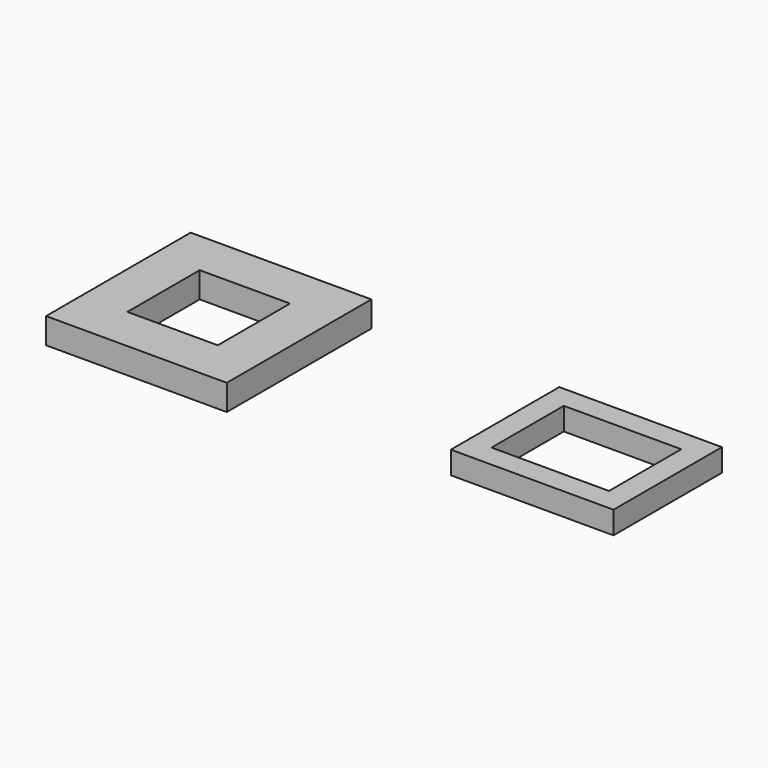
from build123d import *

# Parameters (mm, degrees)
F0_W     = 200
F0_H     = 100
F1_DEPTH = 57
F2_W     = 50
F2_H     = 50
F2_W_2   = 260
F2_H_2   = 200
F3_DEPTH = 50


with BuildPart() as f1:
    # F0 (on Top) → F1 (new body)
    with BuildSketch(Plane.XY):
        Polygon((100, 91.085348), (100, 191.085348), (0, 191.085348), (0, -208.914652), (100, -208.914652), (100, -108.914652), align=None)
        Polygon((400, -208.914652), (400, 191.085348), (300, 191.085348), (300, 91.085348), (300, -108.914652), (300, -208.914652), align=None)
        with Locations((200, -158.914652)):
            Rectangle(F0_W, F0_H)
        with Locations((200, 141.085348)):
            Rectangle(F0_W, F0_H)
    extrude(amount=F1_DEPTH)


with BuildPart() as f3:
    # F2 (on Top) → F3 (new body)
    with BuildSketch(Plane.XY):
        with Locations((875.264359, 123.18103)):
            Rectangle(F2_W, F2_H)
        with Locations((1030.264359, 123.18103)):
            Rectangle(F2_W_2, F2_H)
        with Locations((875.264359, -1.81897)):
            Rectangle(F2_W, F2_H_2)
        with Locations((1185.264359, 123.18103)):
            Rectangle(F2_W, F2_H)
        with Locations((875.264359, -126.81897)):
            Rectangle(F2_W, F2_H)
        with Locations((1030.264359, -126.81897)):
            Rectangle(F2_W_2, F2_H)
        with Locations((1185.264359, -1.81897)):
            Rectangle(F2_W, F2_H_2)
        with Locations((1185.264359, -126.81897)):
            Rectangle(F2_W, F2_H)
    extrude(amount=F3_DEPTH)


solid = Compound([f1.part, f3.part])
